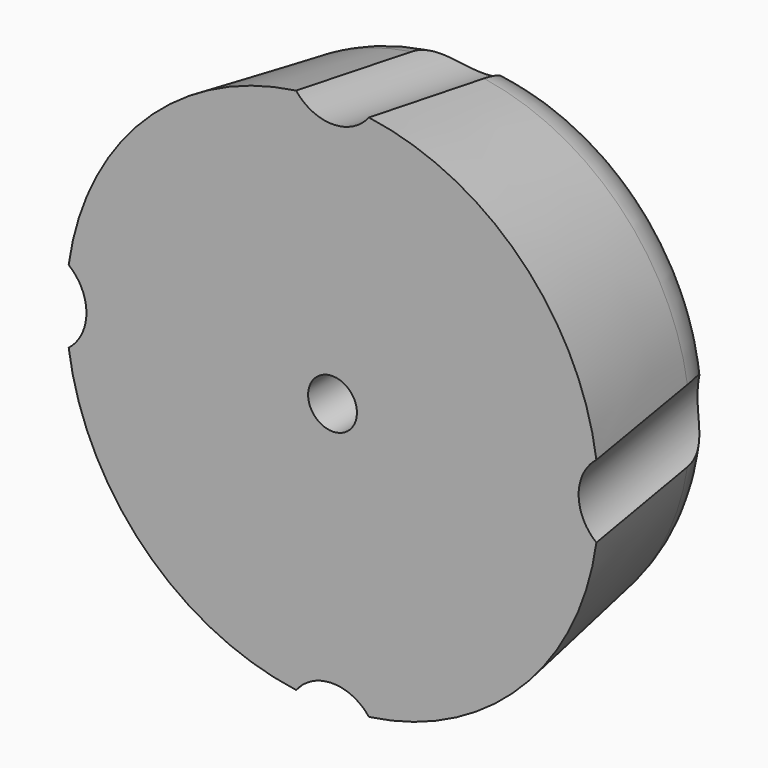
from build123d import *

# Parameters (mm, degrees)
F3_R      = 0.6
F4_DEPTH  = 0.6
F7_COUNT  = 4
F9_R      = 1.1
F10_DEPTH = 9.0010001


with BuildPart() as f2:
    # F1 (on Top) → F2 (revolve)
    with BuildSketch(Plane.XY):
        with BuildLine():
            Line((-12, 0), (0, 0))
            Line((0, 0), (0, 9))
            Line((0, 9), (-7.9586187349, 9))
            ThreePointArc((-7.9586187349, 9), (-9.8977434232, 8.2890599474), (-10.9178005063, 6.4931969619))
            Line((-10.9178005063, 6.4931969619), (-12, 0))
        make_face()
    revolve(axis=Axis((0, 13.4025972581, 0), (0, 1, 0)))

    # F3 (on face) → F4 (join)
    with BuildSketch(Plane(origin=(0, 9, 0), x_dir=(-1, 0, 0), z_dir=(0, 1, 0))):
        with Locations((0, 6.75)):
            Circle(F3_R)
        with Locations((6.75, 0)):
            Circle(F3_R)
        with Locations((0, -6.75)):
            Circle(F3_R)
        with Locations((-6.75, 0)):
            Circle(F3_R)
        with Locations((-4.772970773, 4.772970773)):
            Circle(F3_R)
        with Locations((4.772970773, 4.772970773)):
            Circle(F3_R)
        with Locations((4.772970773, -4.772970773)):
            Circle(F3_R)
        with Locations((-4.772970773, -4.772970773)):
            Circle(F3_R)
    extrude(amount=F4_DEPTH)


with BuildPart() as f6:
    # F5 (on Right) → F6 (revolve)
    with BuildSketch(Plane.YZ):
        Polygon((0.3452378733, 15.2879797461), (0, 13.2165525061), (9, 11.7165525061), (9.3452378733, 13.7879797461), align=None)
    revolve(axis=Axis((0, 6.2346005905, 12.1774524076), (0, 0.9863939238, -0.1643989873)))


with BuildPart() as f7_1:
    # F7: instance of F6
    add(f6.part.rotate(Axis((0, 0, 0), (0, 1, 0)), 1 * 360 / F7_COUNT))


with BuildPart() as f7_2:
    # F7: instance of F6
    add(f6.part.rotate(Axis((0, 0, 0), (0, 1, 0)), 2 * 360 / F7_COUNT))


with BuildPart() as f7_3:
    # F7: instance of F6
    add(f6.part.rotate(Axis((0, 0, 0), (0, 1, 0)), 3 * 360 / F7_COUNT))


with BuildPart() as f2_1:
    add(f2.part)

    # F8: cut F6, F7_1, F7_2, F7_3
    add(f6.part, mode=Mode.SUBTRACT)
    add(f7_1.part, mode=Mode.SUBTRACT)
    add(f7_2.part, mode=Mode.SUBTRACT)
    add(f7_3.part, mode=Mode.SUBTRACT)

    # F9 (on face) → F10 (cut, through all)
    with BuildSketch(Plane(origin=(0, 9, 0), x_dir=(-1, 0, 0), z_dir=(0, 1, 0))):
        Circle(F9_R)
    extrude(amount=-F10_DEPTH, mode=Mode.SUBTRACT)


solid = f2_1.part
